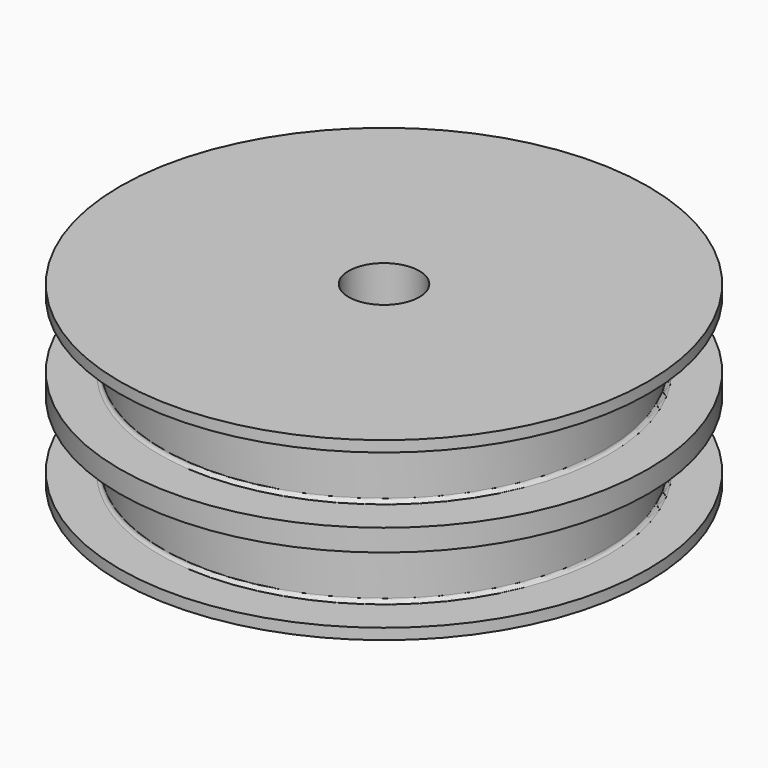
from build123d import *

# Parameters (mm, degrees)
F3_D     = 5.1054
F3_DEPTH = 7.62
F3_TIP   = 1.5338169022


with BuildPart() as f1:
    # F0 (on Front) → F1 (revolve)
    with BuildSketch(Plane.XZ):
        with BuildLine():
            Line((19.05, 12.7), (0, 12.7))
            Line((0, 12.7), (0, 0))
            Line((0, 0), (19.05, 0))
            Line((19.05, 0), (19.05, 0.7874))
            Line((19.05, 0.7874), (16.2052, 0.7874))
            ThreePointArc((16.2052, 0.7874), (16.0255948776, 0.8617948776), (15.9512, 1.0414))
            Line((15.9512, 1.0414), (15.9512, 3.175))
            Line((15.9512, 3.175), (15.9512, 5.3086))
            ThreePointArc((15.9512, 5.3086), (16.0255948776, 5.4882051224), (16.2052, 5.5626))
            Line((16.2052, 5.5626), (19.05, 5.5626))
            Line((19.05, 5.5626), (19.05, 7.1374))
            Line((19.05, 7.1374), (16.2052, 7.1374))
            ThreePointArc((16.2052, 7.1374), (16.0255948776, 7.2117948776), (15.9512, 7.3914))
            Line((15.9512, 7.3914), (15.9512, 9.525))
            Line((15.9512, 9.525), (15.9512, 11.6586))
            ThreePointArc((15.9512, 11.6586), (16.0255948776, 11.8382051224), (16.2052, 11.9126))
            Line((16.2052, 11.9126), (19.05, 11.9126))
            Line((19.05, 11.9126), (19.05, 12.7))
        make_face()
    revolve(axis=Axis((0, 0, 6.35), (0, 0, -1)))

    # F3
    with Locations(Plane.XY.offset(12.7)):
        with Locations((0, 0)):
            Hole(F3_D / 2, depth=F3_DEPTH)
            with Locations((0, 0, -(F3_DEPTH + F3_TIP / 2))):  # 118° drill point
                Cone(0, F3_D / 2, F3_TIP, mode=Mode.SUBTRACT)


solid = f1.part
